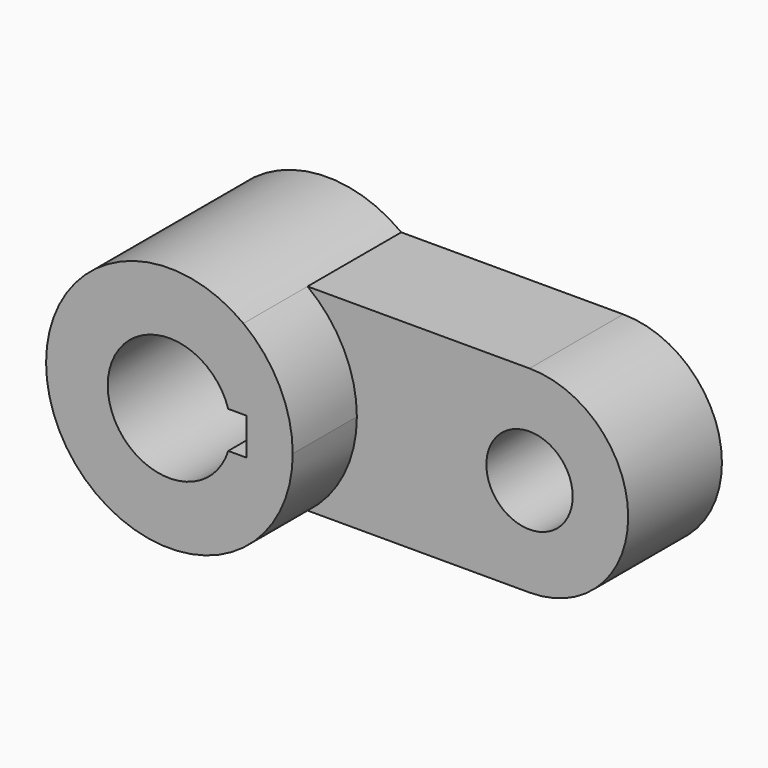
from build123d import *

# Parameters (mm, degrees)
F0_W      = 76.2
F0_H      = 50.8
F1_DEPTH  = 30.1625
F3_DEPTH  = 30.1625
F4_R      = 11.1125
F5_DEPTH  = 30.1625
F7_DEPTH  = 20.6375
F8_DEPTH  = 30.1625
F9_R      = 15.875
F10_DEPTH = 50.8
F12_DEPTH = 50.8


with BuildPart() as f1:
    # F0 (on Front) → F1 (new body)
    with BuildSketch(Plane.XZ):
        with Locations((6.8375896662, 9.2583434884)):
            Rectangle(F0_W, F0_H)
    extrude(amount=F1_DEPTH)

    # F2 (on face) → F3 (join)
    with BuildSketch(Plane(origin=(0, 0, 0), x_dir=(-1, 0, 0), z_dir=(0, 1, 0))):
        with BuildLine():
            Line((-44.9375896662, -16.1416565116), (-44.9375896662, 34.6583434884))
            ThreePointArc((-44.9375896662, 34.6583434884), (-70.3375896662, 9.2583434884), (-44.9375896662, -16.1416565116))
        make_face()
    extrude(amount=-F3_DEPTH)

    # F4 (on face) → F5 (cut)
    with BuildSketch(Plane.XZ.offset(30.1625)):
        with Locations((44.9375896662, 9.2583434884)):
            Circle(F4_R)
    extrude(amount=-F5_DEPTH, mode=Mode.SUBTRACT)

    # F6 (on face) → F7 (join)
    with BuildSketch(Plane.XZ.offset(30.1625)):
        with BuildLine():
            Line((-31.2624103338, 34.6583434884), (-12.2124103338, 34.6583434884))
            ThreePointArc((-12.2124103338, 34.6583434884), (-63.0124103338, 9.2583434884), (-12.2124103338, -16.1416565116))
            Line((-12.2124103338, -16.1416565116), (-31.2624103338, -16.1416565116))
            Line((-31.2624103338, -16.1416565116), (-31.2624103338, 34.6583434884))
        make_face()
        with BuildLine():
            ThreePointArc((-12.2124103338, -16.1416565116), (-2.8643470195, -4.9406881687), (0.4875896662, 9.2583434884))
            ThreePointArc((0.4875896662, 9.2583434884), (-2.8643470195, 23.4573751456), (-12.2124103338, 34.6583434884))
            Line((-12.2124103338, 34.6583434884), (-31.2624103338, 34.6583434884))
            Line((-31.2624103338, 34.6583434884), (-31.2624103338, -16.1416565116))
            Line((-31.2624103338, -16.1416565116), (-12.2124103338, -16.1416565116))
        make_face()
    extrude(amount=F7_DEPTH)

    # F8 (add): a face of the model
    f8_faces = [f1.faces().sort_by_distance(p)[0] for p in [
        (-42.7836943553, -30.1625, 9.2583434884),
    ]]
    extrude(f8_faces, amount=F8_DEPTH)

    # F9 (on face) → F10 (cut)
    with BuildSketch(Plane.XZ.offset(50.8)):
        with Locations((-31.2624103338, 9.2583434884)):
            Circle(F9_R)
    extrude(amount=-F10_DEPTH, mode=Mode.SUBTRACT)

    # F11 (on face) → F12 (cut)
    with BuildSketch(Plane.XZ.offset(50.8)):
        with BuildLine():
            Line((-11.3561255113, 14.0208434884), (-16.1186255113, 14.0208434884))
            ThreePointArc((-16.1186255113, 14.0208434884), (-15.5712789364, 11.6674969645), (-15.3874103338, 9.2583434884))
            ThreePointArc((-15.3874103338, 9.2583434884), (-15.5712789364, 6.8491900123), (-16.1186255113, 4.4958434884))
            Line((-16.1186255113, 4.4958434884), (-11.3561255113, 4.4958434884))
            Line((-11.3561255113, 4.4958434884), (-11.3561255113, 14.0208434884))
        make_face()
    extrude(amount=-F12_DEPTH, mode=Mode.SUBTRACT)


solid = f1.part
